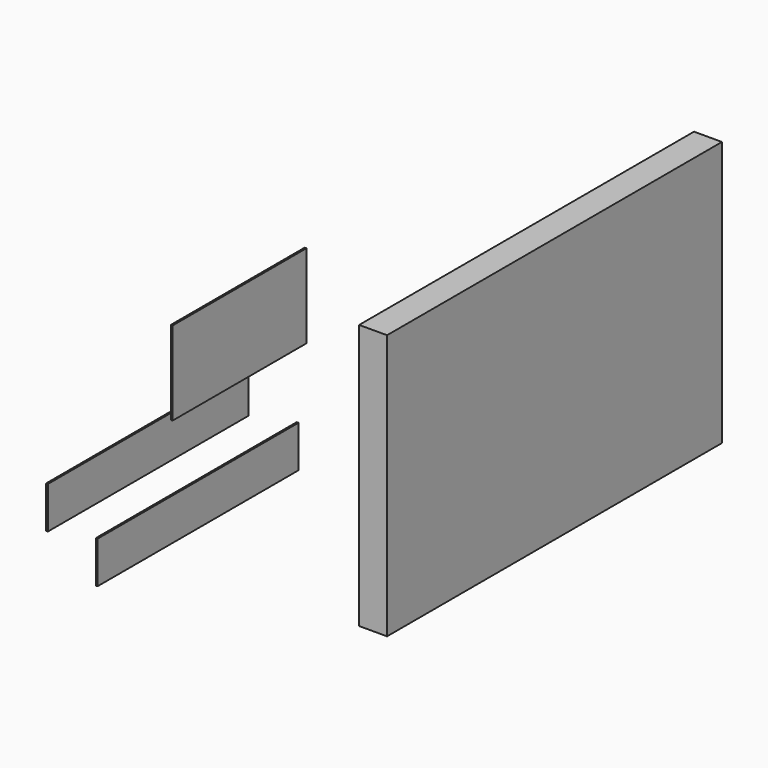
from build123d import *

# Parameters (mm, degrees)
F0_W     = 6.35
F0_H     = 152.4
F1_DEPTH = 914.4
F2_W     = 914.4
F2_H     = 152.4
F3_DEPTH = 6.35
F4_W     = 609.6
F4_H     = 304.8
F5_DEPTH = 6.35
F6_W     = 1524
F6_H     = 965.2
F7_DEPTH = 101.6


with BuildPart() as f1:
    # F0 (on Front) → F1 (new body)
    with BuildSketch(Plane.XZ):
        with Locations((-56.403234, 53.902188)):
            Rectangle(F0_W, F0_H)
    extrude(amount=F1_DEPTH)


with BuildPart() as f3:
    # F2 (on Right) → F3 (new body)
    with BuildSketch(Plane.YZ):
        with Locations((-305.293286, -163.750612)):
            Rectangle(F2_W, F2_H)
    extrude(amount=F3_DEPTH)


with BuildPart() as f5:
    # F4 (on Right) → F5 (new body)
    with BuildSketch(Plane.YZ):
        with Locations((-116.646115, 304.655163)):
            Rectangle(F4_W, F4_H)
    extrude(amount=F5_DEPTH)


with BuildPart() as f7:
    # F6 (on Right) → F7 (new body)
    with BuildSketch(Plane.YZ):
        with Locations((1197.923457, -374.081705)):
            Rectangle(F6_W, F6_H)
    extrude(amount=F7_DEPTH)


solid = Compound([f1.part, f3.part, f5.part, f7.part])
